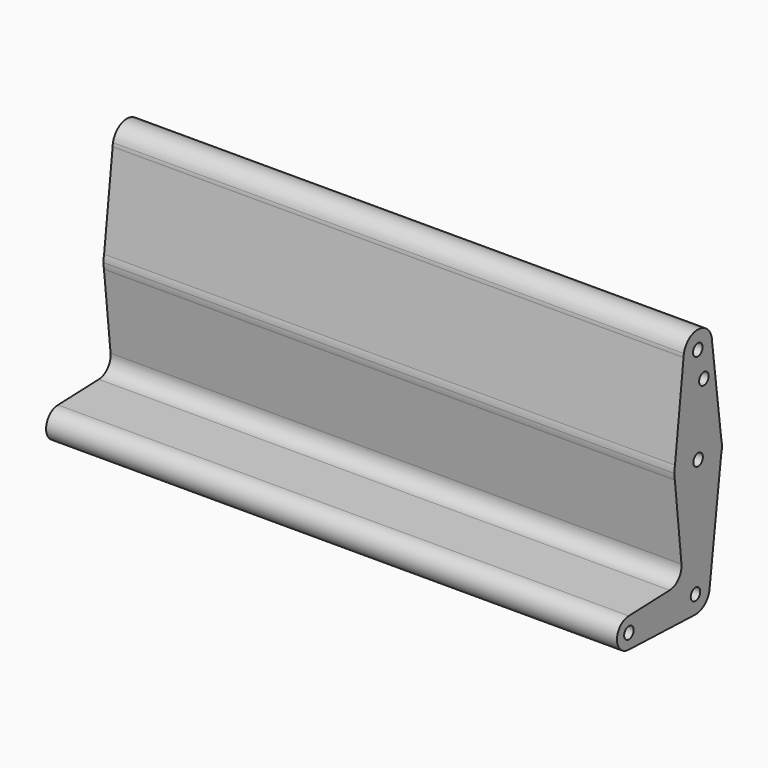
from build123d import *

# Parameters (mm, degrees)
F0_R     = 3.175
F1_DEPTH = 304.8


with BuildPart() as f1:
    # F0 (on Right) → F1 (new body)
    with BuildSketch(Plane.YZ):
        with BuildLine():
            ThreePointArc((-22.8529511317, 51.9202167742), (-13.4157885587, 42.2230655236), (-3.8045140282, 51.7476747914))
            ThreePointArc((-3.8045140282, 51.7476747914), (-12.2986988853, 61.2167320381), (-22.6314001471, 53.7971965969))
            Line((-22.6314001471, 53.7971965969), (-22.8529511317, 51.9202167742))
        make_face()
        with Locations((-13.3295140282, 51.7476747914)):
            Circle(F0_R, mode=Mode.SUBTRACT)
        with BuildLine():
            Line((2.2644576156, 3.968923864), (-3.8045140282, 51.7476747914))
            ThreePointArc((-3.8045140282, 51.7476747914), (-13.4157885587, 42.2230655236), (-22.8529511317, 51.9202167742))
            Line((-22.8529511317, 51.9202167742), (-28.545122604, 3.6961431112))
            ThreePointArc((-28.545122604, 3.6961431112), (-13.2469481423, 15.8743778228), (2.2644576156, 3.968923864))
        make_face()
        with Locations((-9.2709995806, 36.5252)):
            Circle(F0_R, mode=Mode.SUBTRACT)
        with BuildLine():
            Line((-22.8529511317, 51.9202167742), (-22.6314001471, 53.7971965969))
            ThreePointArc((-22.6314001471, 53.7971965969), (-22.78884603, 52.8642154666), (-22.8529511317, 51.9202167742))
        make_face()
        with BuildLine():
            Line((2.7685998529, 0), (2.2644576156, 3.968923864))
            ThreePointArc((2.2644576156, 3.968923864), (-13.2469481423, 15.8743778228), (-28.545122604, 3.6961431112))
            Line((-28.545122604, 3.6961431112), (-28.9814001471, 0))
            Line((-28.9814001471, 0), (-28.6248095933, -3.3458322221))
            ThreePointArc((-28.6248095933, -3.3458322221), (-13.462164486, -15.8710130973), (2.2464969737, -4.0378428646))
            Line((2.2464969737, -4.0378428646), (2.7685998529, 0))
        make_face()
        with Locations((-13.1064001471, 0)):
            Circle(F0_R, mode=Mode.SUBTRACT)
        with BuildLine():
            ThreePointArc((2.7685998529, 0), (2.6420599679, 2.0004072107), (2.2644576156, 3.968923864))
            Line((2.2644576156, 3.968923864), (2.7685998529, 0))
        make_face()
        with BuildLine():
            Line((-28.9814001471, 0), (-28.545122604, 3.6961431112))
            ThreePointArc((-28.545122604, 3.6961431112), (-28.8719534834, 1.8609011253), (-28.9814001471, 0))
        make_face()
        with BuildLine():
            ThreePointArc((2.2464969737, -4.0378428646), (2.637533078, -2.0357287648), (2.7685998529, 0))
            Line((2.7685998529, 0), (2.2464969737, -4.0378428646))
        make_face()
        with BuildLine():
            Line((-28.6248095933, -3.3458322221), (-28.9814001471, 0))
            ThreePointArc((-28.9814001471, 0), (-28.8920007844, -1.6823904185), (-28.6248095933, -3.3458322221))
        make_face()
        with BuildLine():
            Line((-5.3589790656, -62.8571261481), (2.2464969737, -4.0378428646))
            ThreePointArc((2.2464969737, -4.0378428646), (-13.462164486, -15.8710130973), (-28.6248095933, -3.3458322221))
            Line((-28.6248095933, -3.3458322221), (-24.2308362037, -44.5737828668))
            ThreePointArc((-24.2308362037, -44.5737828668), (-26.1909962764, -50.8187140835), (-32.0960141584, -53.6422149647))
            Line((-32.0960141584, -53.6422149647), (-59.3291009865, -54.6148252086))
            ThreePointArc((-59.3291009865, -54.6148252086), (-53.7164409108, -56.9396651329), (-51.3916009865, -62.5523252086))
            ThreePointArc((-51.3916009865, -62.5523252086), (-53.7164409108, -68.1649852842), (-59.3291009865, -70.4898252086))
            Line((-59.3291009865, -70.4898252086), (-15.5585914323, -72.0530576926))
            ThreePointArc((-15.5585914323, -72.0530576926), (-21.3696124649, -55.5810351021), (-5.3541009865, -62.5523252086))
            ThreePointArc((-5.3541009865, -62.5523252086), (-5.3553205843, -62.7047451945), (-5.3589790656, -62.8571261481))
        make_face()
        with BuildLine():
            ThreePointArc((-14.8791009865, -72.0773252086), (-8.2525484872, -69.3944321191), (-5.3589790656, -62.8571261481))
            ThreePointArc((-5.3589790656, -62.8571261481), (-5.3553205843, -62.7047451945), (-5.3541009865, -62.5523252086))
            ThreePointArc((-5.3541009865, -62.5523252086), (-21.3696124649, -55.5810351021), (-15.5585914323, -72.0530576926))
            Line((-15.5585914323, -72.0530576926), (-14.8791009865, -72.0773252086))
        make_face()
        with Locations((-14.8791009865, -62.5523252086)):
            Circle(F0_R, mode=Mode.SUBTRACT)
        with BuildLine():
            ThreePointArc((-15.5585914323, -72.0530576926), (-15.2190628146, -72.0712563962), (-14.8791009865, -72.0773252086))
            Line((-14.8791009865, -72.0773252086), (-15.5585914323, -72.0530576926))
        make_face()
        with BuildLine():
            ThreePointArc((-51.3916009865, -62.5523252086), (-53.7164409108, -56.9396651329), (-59.3291009865, -54.6148252086))
            ThreePointArc((-59.3291009865, -54.6148252086), (-67.2666009865, -62.5523252086), (-59.3291009865, -70.4898252086))
            ThreePointArc((-59.3291009865, -70.4898252086), (-53.7164409108, -68.1649852842), (-51.3916009865, -62.5523252086))
        make_face()
        with Locations((-59.3291009865, -62.5523252086)):
            Circle(F0_R, mode=Mode.SUBTRACT)
    extrude(amount=F1_DEPTH)


solid = f1.part
